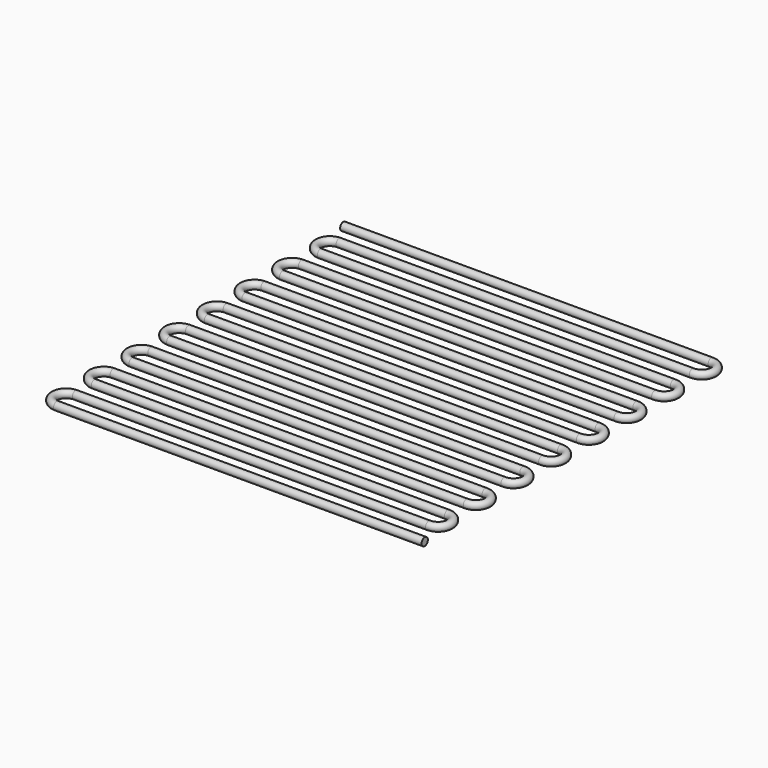
from build123d import *

# Parameters (mm, degrees)
F8_R = 0.205


with BuildPart() as f9:
    # F9: sweep along a path in F6
    with BuildLine(Plane.XY.offset(0.615)) as f9_path:
        Line((-10, 9.84), (9.225, 9.84))
        ThreePointArc((9.225, 9.84), (9.84, 9.225), (9.225, 8.61))
        Line((9.225, 8.61), (-9.225, 8.61))
        ThreePointArc((-9.225, 8.61), (-9.84, 7.995), (-9.225, 7.38))
        Line((-9.225, 7.38), (9.225, 7.38))
        ThreePointArc((9.225, 7.38), (9.84, 6.765), (9.225, 6.15))
        Line((9.225, 6.15), (-9.225, 6.15))
        ThreePointArc((-9.225, 6.15), (-9.84, 5.535), (-9.225, 4.92))
        Line((-9.225, 4.92), (9.225, 4.92))
        ThreePointArc((9.225, 4.92), (9.84, 4.305), (9.225, 3.69))
        Line((9.225, 3.69), (-9.225, 3.69))
        ThreePointArc((-9.225, 3.69), (-9.84, 3.075), (-9.225, 2.46))
        Line((-9.225, 2.46), (9.225, 2.46))
        ThreePointArc((9.225, 2.46), (9.84, 1.845), (9.225, 1.23))
        Line((9.225, 1.23), (-9.225, 1.23))
        ThreePointArc((-9.225, 1.23), (-9.84, 0.615), (-9.225, 0))
        Line((-9.225, 0), (9.225, 0))
        ThreePointArc((9.225, 0), (9.84, -0.615), (9.225, -1.23))
        Line((9.225, -1.23), (-9.225, -1.23))
        ThreePointArc((-9.225, -1.23), (-9.84, -1.845), (-9.225, -2.46))
        Line((-9.225, -2.46), (9.225, -2.46))
        ThreePointArc((9.225, -2.46), (9.84, -3.075), (9.225, -3.69))
        Line((9.225, -3.69), (-9.225, -3.69))
        ThreePointArc((-9.225, -3.69), (-9.84, -4.305), (-9.225, -4.92))
        Line((-9.225, -4.92), (9.225, -4.92))
        ThreePointArc((9.225, -4.92), (9.84, -5.535), (9.225, -6.15))
        Line((9.225, -6.15), (-9.225, -6.15))
        ThreePointArc((-9.225, -6.15), (-9.84, -6.765), (-9.225, -7.38))
        Line((-9.225, -7.38), (9.225, -7.38))
        ThreePointArc((9.225, -7.38), (9.84, -7.995), (9.225, -8.61))
        Line((9.225, -8.61), (-9.225, -8.61))
        ThreePointArc((-9.225, -8.61), (-9.84, -9.225), (-9.225, -9.84))
        Line((-9.225, -9.84), (10, -9.84))
    # F8 (on line) → F9 (sweep)
    with BuildSketch(Plane.YZ.offset(-10)):
        with Locations((9.84, 0.615)):
            Circle(F8_R)
    sweep(path=f9_path.line)


solid = f9.part
